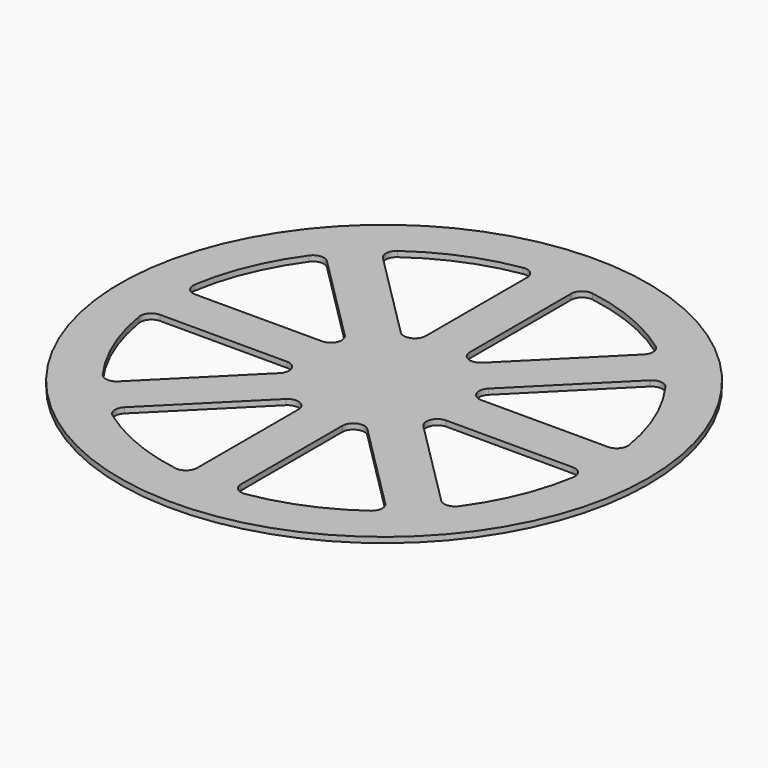
from build123d import *

# Parameters (mm, degrees)
F0_R     = 152.4
F1_DEPTH = 3.175


with BuildPart() as f1:
    # F0 (on Top) → F1 (new body)
    with BuildSketch(Plane.XY):
        Circle(F0_R)
        with BuildLine():
            ThreePointArc((-74.496722, -102.855425), (-77.10194, -98.215549), (-75.262014, -93.222526))
            Line((-75.262014, -93.222526), (-23.540128, -41.50064))
            ThreePointArc((-23.540128, -41.50064), (-16.61996, -40.124133), (-12.7, -45.990768))
            Line((-12.7, -45.990768), (-12.7, -119.13656))
            ThreePointArc((-12.7, -119.13656), (-14.929576, -123.968186), (-20.052632, -125.406906))
            ThreePointArc((-20.052632, -125.406906), (-48.600796, -117.332701), (-74.496722, -102.855425))
        make_face(mode=Mode.SUBTRACT)
        with BuildLine():
            ThreePointArc((-102.855425, -74.496722), (-117.332701, -48.600796), (-125.406906, -20.052632))
            ThreePointArc((-125.406906, -20.052632), (-123.968186, -14.929576), (-119.13656, -12.7))
            Line((-119.13656, -12.7), (-45.990768, -12.7))
            ThreePointArc((-45.990768, -12.7), (-40.124133, -16.61996), (-41.50064, -23.540128))
            Line((-41.50064, -23.540128), (-93.222526, -75.262014))
            ThreePointArc((-93.222526, -75.262014), (-98.215549, -77.10194), (-102.855425, -74.496722))
        make_face(mode=Mode.SUBTRACT)
        with BuildLine():
            ThreePointArc((20.052632, -125.406906), (14.929576, -123.968186), (12.7, -119.13656))
            Line((12.7, -119.13656), (12.7, -45.990768))
            ThreePointArc((12.7, -45.990768), (16.61996, -40.124133), (23.540128, -41.50064))
            Line((23.540128, -41.50064), (75.262014, -93.222526))
            ThreePointArc((75.262014, -93.222526), (77.10194, -98.215549), (74.496722, -102.855425))
            ThreePointArc((74.496722, -102.855425), (48.600796, -117.332701), (20.052632, -125.406906))
        make_face(mode=Mode.SUBTRACT)
        with BuildLine():
            ThreePointArc((119.13656, -12.7), (123.968186, -14.929576), (125.406906, -20.052632))
            ThreePointArc((125.406906, -20.052632), (117.332701, -48.600796), (102.855425, -74.496722))
            ThreePointArc((102.855425, -74.496722), (98.215549, -77.10194), (93.222526, -75.262014))
            Line((93.222526, -75.262014), (41.50064, -23.540128))
            ThreePointArc((41.50064, -23.540128), (40.124133, -16.61996), (45.990768, -12.7))
            Line((45.990768, -12.7), (119.13656, -12.7))
        make_face(mode=Mode.SUBTRACT)
        with BuildLine():
            Line((-45.990768, 12.7), (-119.13656, 12.7))
            ThreePointArc((-119.13656, 12.7), (-123.968186, 14.929576), (-125.406906, 20.052632))
            ThreePointArc((-125.406906, 20.052632), (-117.332701, 48.600796), (-102.855425, 74.496722))
            ThreePointArc((-102.855425, 74.496722), (-98.215549, 77.10194), (-93.222526, 75.262014))
            Line((-93.222526, 75.262014), (-41.50064, 23.540128))
            ThreePointArc((-41.50064, 23.540128), (-40.124133, 16.61996), (-45.990768, 12.7))
        make_face(mode=Mode.SUBTRACT)
        with BuildLine():
            ThreePointArc((-20.052632, 125.406906), (-14.929576, 123.968186), (-12.7, 119.13656))
            Line((-12.7, 119.13656), (-12.7, 45.990768))
            ThreePointArc((-12.7, 45.990768), (-16.61996, 40.124133), (-23.540128, 41.50064))
            Line((-23.540128, 41.50064), (-75.262014, 93.222526))
            ThreePointArc((-75.262014, 93.222526), (-77.10194, 98.215549), (-74.496722, 102.855425))
            ThreePointArc((-74.496722, 102.855425), (-48.600796, 117.332701), (-20.052632, 125.406906))
        make_face(mode=Mode.SUBTRACT)
        with BuildLine():
            ThreePointArc((102.855425, 74.496722), (117.332701, 48.600796), (125.406906, 20.052632))
            ThreePointArc((125.406906, 20.052632), (123.968186, 14.929576), (119.13656, 12.7))
            Line((119.13656, 12.7), (45.990768, 12.7))
            ThreePointArc((45.990768, 12.7), (40.124133, 16.61996), (41.50064, 23.540128))
            Line((41.50064, 23.540128), (93.222526, 75.262014))
            ThreePointArc((93.222526, 75.262014), (98.215549, 77.10194), (102.855425, 74.496722))
        make_face(mode=Mode.SUBTRACT)
        with BuildLine():
            ThreePointArc((74.496722, 102.855425), (77.10194, 98.215549), (75.262014, 93.222526))
            Line((75.262014, 93.222526), (23.540128, 41.50064))
            ThreePointArc((23.540128, 41.50064), (16.61996, 40.124133), (12.7, 45.990768))
            Line((12.7, 45.990768), (12.7, 119.13656))
            ThreePointArc((12.7, 119.13656), (14.929576, 123.968186), (20.052632, 125.406906))
            ThreePointArc((20.052632, 125.406906), (48.600796, 117.332701), (74.496722, 102.855425))
        make_face(mode=Mode.SUBTRACT)
    extrude(amount=F1_DEPTH)


solid = f1.part
